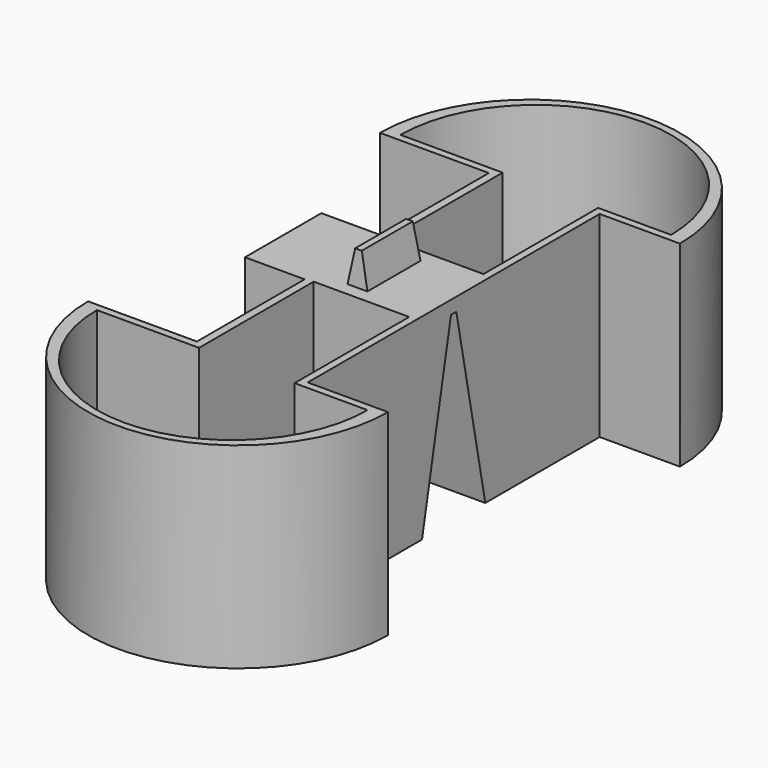
from build123d import *

# Parameters (mm, degrees)
SKETCH016_W = 3
SKETCH016_H = 10
SKETCH017_W = 1
SKETCH017_H = 9.6
SKETCH025_W = 28
SKETCH025_H = 1
SKETCH024_W = 30
SKETCH024_H = 12


with BuildPart() as part:
    # Sketch016 → AdditiveLoft section 0
    with BuildSketch(Plane.XY.offset(-0.2)):
        Rectangle(SKETCH016_W, SKETCH016_H)
    # Sketch017 → AdditiveLoft section 1
    with BuildSketch(Plane.XY.offset(4.8)):
        Rectangle(SKETCH017_W, SKETCH017_H)
    loft()

    # AdditivePipe001: sweep along a path in Sketch022
    with BuildLine(Plane.XZ) as additivepipe001_path:
        Line((0, -0.2), (0, -29.8))
    # Sketch023 (on Face1 of AdditiveLoft) → AdditivePipe001 (sweep)
    with BuildSketch(Plane(origin=(0, 0, -0.2), x_dir=(1, 0, 0), z_dir=(0, 0, -1))):
        with BuildLine():
            Line((10.5, 27.5), (10.5, -27.5))
            Line((10.5, -27.5), (22.6, -27.5))
            ThreePointArc((-22.6, -27.5), (0, -50.1), (22.6, -27.5))
            Line((-10.5, -27.5), (-22.6, -27.5))
            Line((-10.5, -27.5), (-6.2, -27.5))
            Line((-6.2, -7.2), (-6.2, -27.5))
            Line((-15.2, -7.2), (-6.2, -7.2))
            Line((-15.2, 7.2), (-15.2, -7.2))
            Line((-15.2, 7.2), (-6.2, 7.2))
            Line((-6.2, 7.2), (-6.2, 27.5))
            Line((-6.2, 27.5), (-10.5, 27.5))
            Line((-10.5, 27.5), (-22.6, 27.5))
            ThreePointArc((22.6, 27.5), (0, 50.1), (-22.6, 27.5))
            Line((10.5, 27.5), (22.6, 27.5))
        make_face()
    sweep(path=additivepipe001_path.line)

    # Sketch025 (on Face1 of AdditivePipe001) → SubtractiveLoft005 section 0
    with BuildSketch(Plane.XY.offset(-2.2)):
        Rectangle(SKETCH025_W, SKETCH025_H)
    # Sketch024 (on Face14 of AdditivePipe001) → SubtractiveLoft005 section 1
    with BuildSketch(Plane(origin=(-15.2, 0, -30), x_dir=(1, 0, 0), z_dir=(0, 0, 1))):
        with Locations((13.5, 0)):
            Rectangle(SKETCH024_W, SKETCH024_H)
    loft(mode=Mode.SUBTRACT)

    # SubtractivePipe011: sweep along a path in Sketch043
    with BuildLine(Plane(origin=(0, 0, 0), x_dir=(0, -1, 0), z_dir=(-1, 0, 0))) as subtractivepipe011_path:
        Line((-15, -0.2), (-15, -28.8))
    # Sketch042 → SubtractivePipe011 (sweep, cut)
    with BuildSketch(Plane.XY.offset(-0.2)):
        with BuildLine():
            Line((-5, -7), (-5, -28.6))
            Line((-13.4, -28.6), (-5, -28.6))
            Line((-20.4, -28.6), (-13.4, -28.6))
            ThreePointArc((-20.4, -28.6), (0, -49), (20.4, -28.6))
            Line((20.4, -28.6), (13.4, -28.6))
            Line((9.4, -28.6), (13.4, -28.6))
            Line((9.4, -28.6), (9.4, -7))
            Line((9.4, -7), (-5, -7))
        make_face()
    sweep(path=subtractivepipe011_path.line, mode=Mode.SUBTRACT)

    # SubtractivePipe012: sweep along a path in Sketch043
    with BuildLine(Plane(origin=(0, 0, 0), x_dir=(0, -1, 0), z_dir=(-1, 0, 0))) as subtractivepipe012_path:
        Line((-15, -0.2), (-15, -28.8))
    # Sketch044 → SubtractivePipe012 (sweep, cut)
    with BuildSketch(Plane.XY.offset(-0.2)):
        with BuildLine():
            Line((-5, 28.6), (-5, 7))
            Line((-5, 7), (9.4, 7))
            Line((9.4, 7), (9.4, 28.6))
            Line((9.4, 28.6), (13.4, 28.6))
            Line((13.4, 28.6), (20.4, 28.6))
            ThreePointArc((20.4, 28.6), (0, 49), (-20.4, 28.6))
            Line((-13.4, 28.6), (-20.4, 28.6))
            Line((-5, 28.6), (-13.4, 28.6))
        make_face()
    sweep(path=subtractivepipe012_path.line, mode=Mode.SUBTRACT)


solid = part.part
